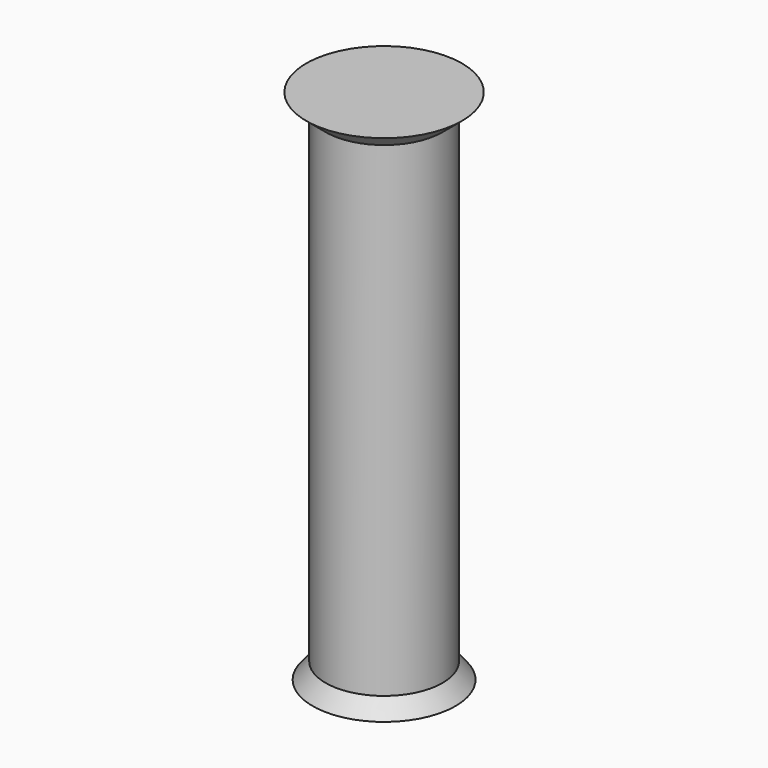
from build123d import *

# Parameters (mm, degrees)
F0_R      = 22.1
F2_R      = 18.1
F7_FACE_R = 18.1
F4_R      = 18.1
F8_FACE_R = 18.1
F6_R      = 24.1


with BuildPart() as f7:
    # F0 (on Top) → F7 section 0
    with BuildSketch(Plane.XY):
        Circle(F0_R)
    # F2 (on offset) → F7 section 1
    with BuildSketch(Plane.XY.offset(5)):
        Circle(F2_R)
    loft()

    # F7_face (on face) → F8 section 0
    with BuildSketch(Plane.XY.offset(5)):
        Circle(F7_FACE_R)
    # F4 (on offset) → F8 section 1
    with BuildSketch(Plane.XY.offset(155)):
        Circle(F4_R)
    loft()

    # F8_face (on face) → F9 section 0
    with BuildSketch(Plane.XY.offset(155)):
        Circle(F8_FACE_R)
    # F6 (on offset) → F9 section 1
    with BuildSketch(Plane.XY.offset(160)):
        Circle(F6_R)
    loft()


solid = f7.part
